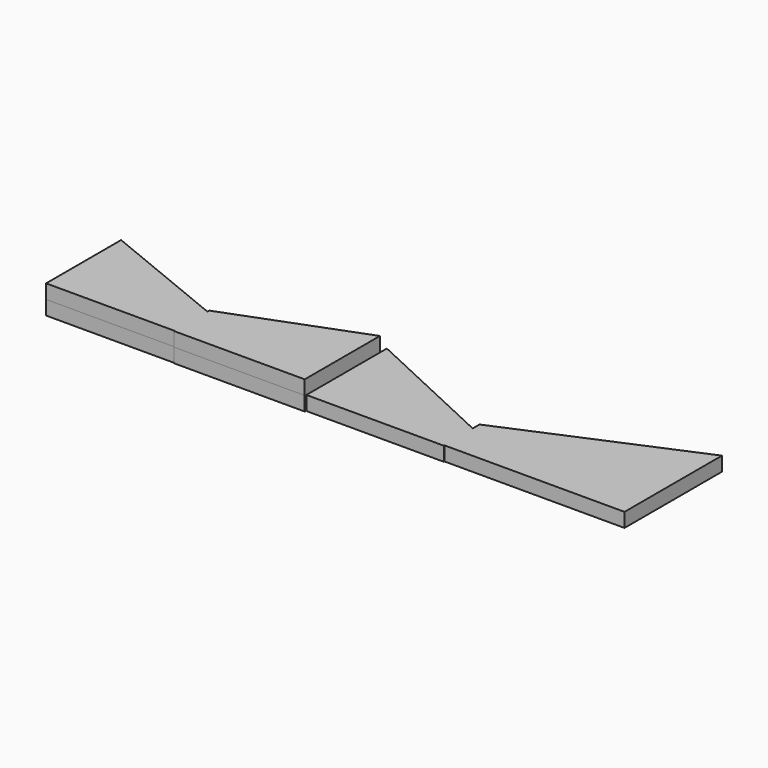
from build123d import *

# Parameters (mm, degrees)
F1_DEPTH = 25.4
F3_DEPTH = 25.4
F5_DEPTH = 25.4
F7_DEPTH = 25.4


with BuildPart() as f1:
    # F0 (on Top) → F1 (new body)
    with BuildSketch(Plane.XY):
        Polygon((-108.002335, 50.849989), (-108.002335, -117.160052), (124.526531, -117.160052), (124.526531, -44.246912), align=None)
    extrude(amount=F1_DEPTH)

    # F2 (on Top) → F3 (join)
    with BuildSketch(Plane.XY):
        Polygon((121.829599, -39.03918), (121.829599, -118.244544), (356.155217, -118.244544), (356.155217, 50.045814), align=None)
    extrude(amount=F3_DEPTH)


with BuildPart() as f5:
    # F4 (on Top) + F3_face (on face) → F5 (new body)
    with BuildSketch(Plane.XY):
        Polygon((357.022703, 64.596415), (357.022703, -115.576446), (603.479803, -115.576446), (603.479803, -50.169855), align=None)
    with BuildSketch(Plane(origin=(125.264919, -53.655909, 25.4), x_dir=(1, 0, 0), z_dir=(0, 0, 1))):
        Polygon((-3.43532, 10.511956), (-233.267254, 104.505898), (-233.267254, -63.504143), (-3.43532, -63.504143), (-3.43532, -64.588635), (230.890298, -64.588635), (230.890298, 103.701723), (-3.43532, 14.616729), align=None)
    extrude(amount=F5_DEPTH)

    # F6 (on Top) → F7 (join)
    with BuildSketch(Plane.XY):
        Polygon((601.969481, -34.231037), (601.969481, -114.199877), (925.68922, -114.199877), (925.68922, 103.933185), align=None)
    extrude(amount=F7_DEPTH)


solid = Compound([f1.part, f5.part])
